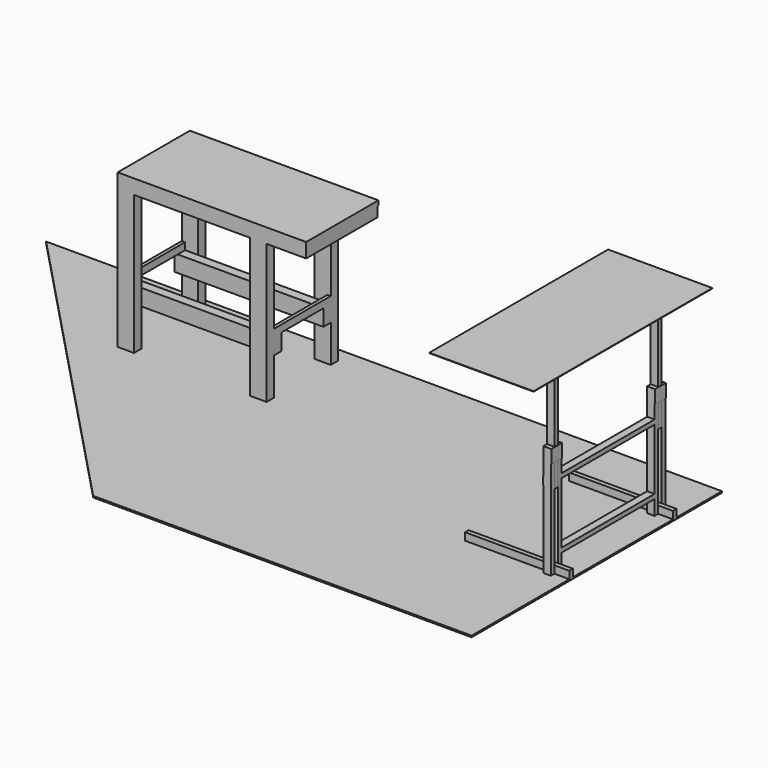
from build123d import *

# Parameters (mm, degrees)
PAD015_DEPTH    = 10
SKETCH001_W     = 30
SKETCH001_H     = 50
PAD_DEPTH       = 700
SKETCH002_W     = 750
SKETCH002_H     = 50
PAD001_DEPTH    = 30
SKETCH003_W     = 750
SKETCH003_H     = 50
PAD002_DEPTH    = 30
SKETCH004_W     = 30
SKETCH004_H     = 50
PAD003_DEPTH    = 780
SKETCH005_W     = 750
SKETCH005_H     = 50
PAD004_DEPTH    = 30
SKETCH006_W     = 50
SKETCH006_H     = 700
PAD005_DEPTH    = 30
SKETCH007_W     = 750
SKETCH007_H     = 50
PAD006_DEPTH    = 30
SKETCH008_W     = 90
SKETCH008_H     = 50
PAD007_DEPTH    = 3
SKETCH009_W     = 90
SKETCH009_H     = 90
PAD008_DEPTH    = 3
SKETCH010_W     = 50
SKETCH010_H     = 30
PAD009_DEPTH    = 700
SKETCH011_W     = 50
SKETCH011_H     = 1300
PAD010_DEPTH    = 30
SKETCH012_W     = 50
SKETCH012_H     = 30
PAD011_DEPTH    = 700
SKETCH013_W     = 50
SKETCH013_H     = 30
PAD012_DEPTH    = 400
SKETCH014_W     = 1300
SKETCH014_H     = 30
PAD013_DEPTH    = 50
SKETCH015_W     = 700
SKETCH015_H     = 1500
PAD014_DEPTH    = 3
SKETCH016_W     = 110
SKETCH016_H     = 61.7
PAD016_DEPTH    = 1000
SKETCH017_W     = 1000
SKETCH017_H     = 110
PAD017_DEPTH    = 61.7
SKETCH018_W     = 110
SKETCH018_H     = 1000
PAD018_DEPTH    = 61.7
SKETCH019_W     = 61.7
SKETCH019_H     = 47.2
POCKET_DEPTH    = 22.1
SKETCH020_W     = 600
SKETCH020_H     = 47.2
PAD019_DEPTH    = 22.1
SKETCH021_W     = 61.7
SKETCH021_H     = 1000
PAD020_DEPTH    = 110
SKETCH022_W     = 1000
SKETCH022_H     = 110
PAD021_DEPTH    = 61.7
SKETCH023_W     = 110
SKETCH023_H     = 1000
PAD022_DEPTH    = 61.7
SKETCH024_W     = 61.7
SKETCH024_H     = 47.2
POCKET001_DEPTH = 22.1
SKETCH025_W     = 600
SKETCH025_H     = 47.2
PAD023_DEPTH    = 22.1
SKETCH026_W     = 61.7
SKETCH026_H     = 66
POCKET002_DEPTH = 32.8
SKETCH027_W     = 61.7
SKETCH027_H     = 66
POCKET003_DEPTH = 32.6
SKETCH028_W     = 77.2
SKETCH028_H     = 66
SKETCH028_W_2   = 77.4
POCKET004_DEPTH = 32.8
SKETCH029_W     = 77.4
SKETCH029_H     = 66
SKETCH029_W_2   = 77.2
POCKET005_DEPTH = 32.8
SKETCH030_W     = 600
SKETCH030_H     = 66
PAD024_DEPTH    = 32.8
SKETCH032_W     = 1200
SKETCH032_H     = 66
PAD025_DEPTH    = 32.8
SKETCH033_W     = 1200
SKETCH033_H     = 66
PAD026_DEPTH    = 32.8
SKETCH034_W     = 600
SKETCH034_H     = 66
PAD027_DEPTH    = 32.8
SKETCH035_W     = 534.4
SKETCH035_H     = 66
PAD028_DEPTH    = 31.5
SKETCH036_W     = 31.5
SKETCH036_H     = 68
PAD029_DEPTH    = 534.4
SKETCH037_W     = 1265.6
SKETCH037_H     = 606
PAD030_DEPTH    = 31.5


with BuildPart() as area:
    # Sketch → Pad015 (new body)
    with BuildSketch(Plane.XY):
        Polygon((0, -2100), (-2540, -2100), (-4536.311388, 0), (0, 0), align=None)
    extrude(amount=-PAD015_DEPTH)


with BuildPart() as obj1:
    # Sketch001 → Pad (new body)
    with BuildSketch(Plane.YZ):
        with Locations((-395, 25)):
            Rectangle(SKETCH001_W, SKETCH001_H)
    extrude(amount=-PAD_DEPTH)

    # Sketch002 (on Face4 of Pad) → Pad001 (join)
    with BuildSketch(Plane(origin=(0, -410, 0), x_dir=(0, 0, -1), z_dir=(0, -1, 0))):
        with Locations((-375, -125)):
            Rectangle(SKETCH002_W, SKETCH002_H)
    extrude(amount=PAD001_DEPTH)

    # Sketch003 (on Face5 of Pad001) → Pad002 (join)
    with BuildSketch(Plane.ZX.offset(-380)):
        with Locations((375, -125)):
            Rectangle(SKETCH003_W, SKETCH003_H)
    extrude(amount=PAD002_DEPTH)

    # Sketch004 (on Face18 of Pad002) → Pad003 (join)
    with BuildSketch(Plane(origin=(0, -440, 0), x_dir=(0, 0, -1), z_dir=(0, -1, 0))):
        with Locations((-115, -125)):
            Rectangle(SKETCH004_W, SKETCH004_H)
        with Locations((-555, -125)):
            Rectangle(SKETCH004_W, SKETCH004_H)
    extrude(amount=PAD003_DEPTH)

    # Sketch005 (on Face29 of Pad003) → Pad004 (join)
    with BuildSketch(Plane(origin=(0, -1220, 0), x_dir=(0, 0, -1), z_dir=(0, -1, 0))):
        with Locations((-375, -125)):
            Rectangle(SKETCH005_W, SKETCH005_H)
    extrude(amount=PAD004_DEPTH)

    # Sketch006 (on Face9 of Pad004) → Pad005 (join)
    with BuildSketch(Plane(origin=(0, -1250, 0), x_dir=(0, 0, -1), z_dir=(0, -1, 0))):
        with Locations((-25, -350)):
            Rectangle(SKETCH006_W, SKETCH006_H)
    extrude(amount=PAD005_DEPTH)

    # Sketch007 (on Face24 of Pad005) → Pad006 (join)
    with BuildSketch(Plane(origin=(0, -1280, 0), x_dir=(0, 0, -1), z_dir=(0, -1, 0))):
        with Locations((-375, -125)):
            Rectangle(SKETCH007_W, SKETCH007_H)
    extrude(amount=PAD006_DEPTH)

    # Sketch008 (on Face50 of Pad006) → Pad007 (join)
    with BuildSketch(Plane(origin=(-150, 0, 0), x_dir=(0, 1, 0), z_dir=(-1, 0, 0))):
        with Locations((-1265, -545)):
            Rectangle(SKETCH008_W, SKETCH008_H)
        with Locations((-395, -545)):
            Rectangle(SKETCH008_W, SKETCH008_H)
    extrude(amount=PAD007_DEPTH)

    # Sketch009 (on Face45 of Pad007) → Pad008 (join)
    with BuildSketch(Plane.YZ.offset(-100)):
        with Locations((-1265, 705)):
            Rectangle(SKETCH009_W, SKETCH009_H)
        with Locations((-395, 705)):
            Rectangle(SKETCH009_W, SKETCH009_H)
    extrude(amount=PAD008_DEPTH)


with BuildPart() as obj2:
    # Sketch010 → Pad009 (new body)
    with BuildSketch(Plane.XY.offset(500)):
        with Locations((-125, -395)):
            Rectangle(SKETCH010_W, SKETCH010_H)
    extrude(amount=PAD009_DEPTH)

    # Sketch011 (on Face6 of Pad009) → Pad010 (join)
    with BuildSketch(Plane.XY.offset(1200)):
        with Locations((-125, -830)):
            Rectangle(SKETCH011_W, SKETCH011_H)
    extrude(amount=PAD010_DEPTH)

    # Sketch012 (on Face7 of Pad010) → Pad011 (join)
    with BuildSketch(Plane(origin=(0, 0, 1200), x_dir=(1, 0, 0), z_dir=(0, 0, -1))):
        with Locations((-125, 1265)):
            Rectangle(SKETCH012_W, SKETCH012_H)
    extrude(amount=PAD011_DEPTH)

    # Sketch013 (on Face2 of Pad011) → Pad012 (join)
    with BuildSketch(Plane(origin=(-150, 0, 0), x_dir=(0, -1, 0), z_dir=(-1, 0, 0))):
        with Locations((385, 1215)):
            Rectangle(SKETCH013_W, SKETCH013_H)
        with Locations((1275, 1215)):
            Rectangle(SKETCH013_W, SKETCH013_H)
    extrude(amount=PAD012_DEPTH)

    # Sketch014 (on Face18 of Pad012) → Pad013 (join)
    with BuildSketch(Plane(origin=(-550, 0, 0), x_dir=(0, -1, 0), z_dir=(-1, 0, 0))):
        with Locations((830, 1215)):
            Rectangle(SKETCH014_W, SKETCH014_H)
    extrude(amount=PAD013_DEPTH)

    # Sketch015 (on Face1 of Pad013) → Pad014 (join)
    with BuildSketch(Plane.XY.offset(1230)):
        with Locations((-350, -830)):
            Rectangle(SKETCH015_W, SKETCH015_H)
    extrude(amount=PAD014_DEPTH)


with BuildPart() as obj3:
    # Sketch016 → Pad016 (new body)
    with BuildSketch(Plane.XY):
        with Locations((-3441.157551, -130.85)):
            Rectangle(SKETCH016_W, SKETCH016_H)
    extrude(amount=PAD016_DEPTH)

    # Sketch017 (on Face3 of Pad016) → Pad017 (join)
    with BuildSketch(Plane.XZ.offset(161.7)):
        with Locations((-2996.157551, 305)):
            Rectangle(SKETCH017_W, SKETCH017_H)
    extrude(amount=PAD017_DEPTH)

    # Sketch018 (on Face9 of Pad017) → Pad018 (join)
    with BuildSketch(Plane(origin=(0, -161.7, 0), x_dir=(-1, 0, 0), z_dir=(0, 1, 0))):
        with Locations((2551.157551, 500)):
            Rectangle(SKETCH018_W, SKETCH018_H)
    extrude(amount=PAD018_DEPTH)

    # Sketch019 (on Face2 of Pad018) → Pocket (cut)
    with BuildSketch(Plane(origin=(-3496.157551, 0, 0), x_dir=(0, -1, 0), z_dir=(-1, 0, 0))):
        with Locations((130.85, 383.6)):
            Rectangle(SKETCH019_W, SKETCH019_H)
    extrude(amount=-POCKET_DEPTH, mode=Mode.SUBTRACT)

    # Sketch020 (on Face7 of Pocket) → Pad019 (join)
    with BuildSketch(Plane(origin=(-3474.057551, 0, 0), x_dir=(0, -1, 0), z_dir=(-1, 0, 0))):
        with Locations((400, 383.6)):
            Rectangle(SKETCH020_W, SKETCH020_H)
    extrude(amount=PAD019_DEPTH)

    # Sketch021 (on Face11 of Pad019) → Pad020 (join)
    with BuildSketch(Plane(origin=(-3496.157551, 0, 0), x_dir=(0, -1, 0), z_dir=(-1, 0, 0))):
        with Locations((669.15, 500)):
            Rectangle(SKETCH021_W, SKETCH021_H)
    extrude(amount=-PAD020_DEPTH)

    # Sketch022 (on Face27 of Pad020) → Pad021 (join)
    with BuildSketch(Plane(origin=(0, -638.3, 0), x_dir=(-1, 0, 0), z_dir=(0, 1, 0))):
        with Locations((2996.157551, 305)):
            Rectangle(SKETCH022_W, SKETCH022_H)
    extrude(amount=PAD021_DEPTH)

    # Sketch023 (on Face36 of Pad021) → Pad022 (join)
    with BuildSketch(Plane.XZ.offset(638.3)):
        with Locations((-2551.157551, 500)):
            Rectangle(SKETCH023_W, SKETCH023_H)
    extrude(amount=PAD022_DEPTH)

    # Sketch024 (on Face46 of Pad022) → Pocket001 (cut)
    with BuildSketch(Plane.YZ.offset(-2496.157551)):
        with Locations((-669.15, 383.6)):
            Rectangle(SKETCH024_W, SKETCH024_H)
        with Locations((-130.85, 383.6)):
            Rectangle(SKETCH024_W, SKETCH024_H)
    extrude(amount=-POCKET001_DEPTH, mode=Mode.SUBTRACT)

    # Sketch025 (on Face52 of Pocket001) → Pad023 (join)
    with BuildSketch(Plane.YZ.offset(-2518.257551)):
        with Locations((-400, 383.6)):
            Rectangle(SKETCH025_W, SKETCH025_H)
    extrude(amount=PAD023_DEPTH)

    # Sketch026 (on Face5 of Pad023) → Pocket002 (cut)
    with BuildSketch(Plane(origin=(-3496.157551, 0, 0), x_dir=(0, -1, 0), z_dir=(-1, 0, 0))):
        with Locations((130.85, 967)):
            Rectangle(SKETCH026_W, SKETCH026_H)
        with Locations((669.15, 967)):
            Rectangle(SKETCH026_W, SKETCH026_H)
    extrude(amount=-POCKET002_DEPTH, mode=Mode.SUBTRACT)

    # Sketch027 (on Face55 of Pocket002) → Pocket003 (cut)
    with BuildSketch(Plane.YZ.offset(-2496.157551)):
        with Locations((-669.15, 967)):
            Rectangle(SKETCH027_W, SKETCH027_H)
        with Locations((-130.85, 967)):
            Rectangle(SKETCH027_W, SKETCH027_H)
    extrude(amount=-POCKET003_DEPTH, mode=Mode.SUBTRACT)

    # Sketch028 (on Face56 of Pocket003) → Pocket004 (cut)
    with BuildSketch(Plane.XZ.offset(700)):
        with Locations((-3424.757551, 967)):
            Rectangle(SKETCH028_W, SKETCH028_H)
        with Locations((-2567.457551, 967)):
            Rectangle(SKETCH028_W_2, SKETCH028_H)
    extrude(amount=-POCKET004_DEPTH, mode=Mode.SUBTRACT)

    # Sketch029 (on Face29 of Pocket004) → Pocket005 (cut)
    with BuildSketch(Plane(origin=(0, -100, 0), x_dir=(-1, 0, 0), z_dir=(0, 1, 0))):
        with Locations((2567.457551, 967)):
            Rectangle(SKETCH029_W, SKETCH029_H)
        with Locations((3424.757551, 967)):
            Rectangle(SKETCH029_W_2, SKETCH029_H)
    extrude(amount=-POCKET005_DEPTH, mode=Mode.SUBTRACT)

    # Sketch030 (on Face14 of Pocket005) → Pad024 (join)
    with BuildSketch(Plane(origin=(-3463.357551, 0, 0), x_dir=(0, -1, 0), z_dir=(-1, 0, 0))):
        with Locations((400, 967)):
            Rectangle(SKETCH030_W, SKETCH030_H)
    extrude(amount=PAD024_DEPTH)

    # Sketch032 (on Face13 of Pad024) → Pad025 (join)
    with BuildSketch(Plane(origin=(0, -132.8, 0), x_dir=(-1, 0, 0), z_dir=(0, 1, 0))):
        with Locations((2863.357551, 967)):
            Rectangle(SKETCH032_W, SKETCH032_H)
    extrude(amount=PAD025_DEPTH)

    # Sketch033 (on Face79 of Pad025) → Pad026 (join)
    with BuildSketch(Plane.XZ.offset(667.2)):
        with Locations((-2863.357551, 967)):
            Rectangle(SKETCH033_W, SKETCH033_H)
    extrude(amount=PAD026_DEPTH)

    # Sketch034 (on Face56 of Pad026) → Pad027 (join)
    with BuildSketch(Plane.YZ.offset(-2263.357551)):
        with Locations((-400, 967)):
            Rectangle(SKETCH034_W, SKETCH034_H)
    extrude(amount=PAD027_DEPTH)

    # Sketch035 (on Face24 of Pad027) → Pad028 (join)
    with BuildSketch(Plane(origin=(-2606.157551, 0, 0), x_dir=(0, -1, 0), z_dir=(-1, 0, 0))):
        with Locations((400, 967)):
            Rectangle(SKETCH035_W, SKETCH035_H)
    extrude(amount=PAD028_DEPTH)

    # Sketch036 (on Face13 of Pad028) → Pad029 (join)
    with BuildSketch(Plane.XZ.offset(132.8)):
        with Locations((-3050.507551, 966)):
            Rectangle(SKETCH036_W, SKETCH036_H)
    extrude(amount=PAD029_DEPTH)

    # Sketch037 (on Face19 of Pad029) → Pad030 (join)
    with BuildSketch(Plane.XY.offset(1000)):
        with Locations((-2863.357551, -397)):
            Rectangle(SKETCH037_W, SKETCH037_H)
    extrude(amount=PAD030_DEPTH)


solid = Compound([area.part, obj1.part, obj2.part, obj3.part])
